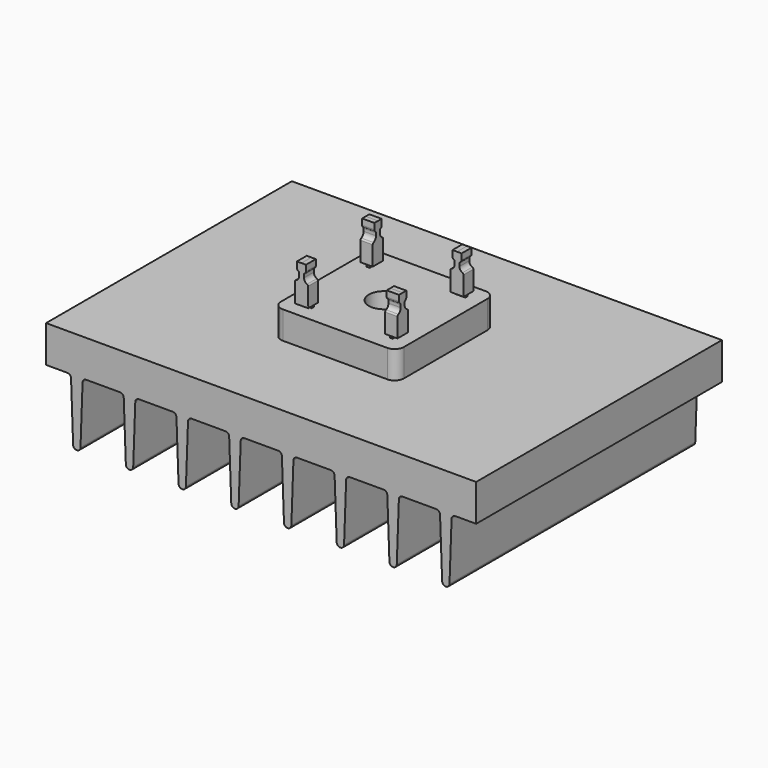
from build123d import *

# Parameters (mm, degrees)
F1_DEPTH       = 31.75
F2_R           = 3.175
F3_DEPTH       = 38.1
F5_W           = 25.4
F5_H           = 25.4
F5_R           = 3.175
F6_DEPTH       = 5.715
F8_W           = 2.286
F8_H           = 5.0511776385
F8_R           = 0.4345613171
F9_DEPTH       = 0.6096
F10_R          = 1.905
F12_COUNT      = 4
F12_ANGLE      = 270
F14_DEPTH      = 1.778
F14_DEPTH_BACK = 0.762
F15_COUNT      = 4
F15_ANGLE      = 270


with BuildPart() as f1:
    # F0 (on Front) → F1 (new body, symmetric)
    with BuildSketch(Plane.XZ):
        with BuildLine():
            Line((44.411900869, 7.62), (-44.488099131, 7.62))
            Line((-44.488099131, 7.62), (-44.488099131, 0))
            Line((-44.488099131, 0), (-40.0923892377, 0))
            ThreePointArc((-40.0923892377, 0), (-39.5633444267, -0.2135881219), (-39.3308814729, -0.7346152546))
            Line((-39.3308814729, -0.7346152546), (-38.8996068957, -12.7273847454))
            ThreePointArc((-38.8996068957, -12.7273847454), (-38.138099131, -13.462), (-37.3765913663, -12.7273847454))
            Line((-37.3765913663, -12.7273847454), (-36.945316789, -0.7346152546))
            ThreePointArc((-36.945316789, -0.7346152546), (-36.7128538353, -0.2135881219), (-36.1838090243, 0))
            Line((-36.1838090243, 0), (-29.195789486, 0))
            ThreePointArc((-29.195789486, 0), (-28.666744675, -0.2135881219), (-28.4342817212, -0.7346152546))
            Line((-28.4342817212, -0.7346152546), (-28.003007144, -12.7273847454))
            ThreePointArc((-28.003007144, -12.7273847454), (-27.2414993793, -13.462), (-26.4799916146, -12.7273847454))
            Line((-26.4799916146, -12.7273847454), (-26.0487170373, -0.7346152546))
            ThreePointArc((-26.0487170373, -0.7346152546), (-25.8162540836, -0.2135881219), (-25.2872092726, 0))
            Line((-25.2872092726, 0), (-18.2991897342, 0))
            ThreePointArc((-18.2991897342, 0), (-17.7701449233, -0.2135881219), (-17.5376819695, -0.7346152546))
            Line((-17.5376819695, -0.7346152546), (-17.1064073923, -12.7273847454))
            ThreePointArc((-17.1064073923, -12.7273847454), (-16.3448996276, -13.462), (-15.5833918629, -12.7273847454))
            Line((-15.5833918629, -12.7273847454), (-15.1521172856, -0.7346152546))
            ThreePointArc((-15.1521172856, -0.7346152546), (-14.9196543318, -0.2135881219), (-14.3906095209, 0))
            Line((-14.3906095209, 0), (-7.4025899825, 0))
            ThreePointArc((-7.4025899825, 0), (-6.8735451716, -0.2135881219), (-6.6410822178, -0.7346152546))
            Line((-6.6410822178, -0.7346152546), (-6.2098076406, -12.7273847454))
            ThreePointArc((-6.2098076406, -12.7273847454), (-5.4482998759, -13.462), (-4.6867921111, -12.7273847454))
            Line((-4.6867921111, -12.7273847454), (-4.2555175339, -0.7346152546))
            ThreePointArc((-4.2555175339, -0.7346152546), (-4.0230545801, -0.2135881219), (-3.4940097692, 0))
            Line((-3.4940097692, 0), (3.4940097692, 0))
            ThreePointArc((3.4940097692, 0), (4.0230545801, -0.2135881219), (4.2555175339, -0.7346152546))
            Line((4.2555175339, -0.7346152546), (4.6867921111, -12.7273847454))
            ThreePointArc((4.6867921111, -12.7273847454), (5.4482998759, -13.462), (6.2098076406, -12.7273847454))
            Line((6.2098076406, -12.7273847454), (6.6410822178, -0.7346152546))
            ThreePointArc((6.6410822178, -0.7346152546), (6.8735451716, -0.2135881219), (7.4025899825, 0))
            Line((7.4025899825, 0), (14.3906095209, 0))
            ThreePointArc((14.3906095209, 0), (14.9196543318, -0.2135881219), (15.1521172856, -0.7346152546))
            Line((15.1521172856, -0.7346152546), (15.5833918629, -12.7273847454))
            ThreePointArc((15.5833918629, -12.7273847454), (16.3448996276, -13.462), (17.1064073923, -12.7273847454))
            Line((17.1064073923, -12.7273847454), (17.5376819695, -0.7346152546))
            ThreePointArc((17.5376819695, -0.7346152546), (17.7701449233, -0.2135881219), (18.2991897342, 0))
            Line((18.2991897342, 0), (25.2872092726, 0))
            ThreePointArc((25.2872092726, 0), (25.8162540836, -0.2135881219), (26.0487170373, -0.7346152546))
            Line((26.0487170373, -0.7346152546), (26.4799916146, -12.7273847454))
            ThreePointArc((26.4799916146, -12.7273847454), (27.2414993793, -13.462), (28.003007144, -12.7273847454))
            Line((28.003007144, -12.7273847454), (28.4342817212, -0.7346152546))
            ThreePointArc((28.4342817212, -0.7346152546), (28.666744675, -0.2135881219), (29.195789486, 0))
            Line((29.195789486, 0), (36.1838090243, 0))
            ThreePointArc((36.1838090243, 0), (36.7128538353, -0.2135881219), (36.945316789, -0.7346152546))
            Line((36.945316789, -0.7346152546), (37.3765913663, -12.7273847454))
            ThreePointArc((37.3765913663, -12.7273847454), (38.138099131, -13.462), (38.8996068957, -12.7273847454))
            Line((38.8996068957, -12.7273847454), (39.3308814729, -0.7346152546))
            ThreePointArc((39.3308814729, -0.7346152546), (39.5633444267, -0.2135881219), (40.0923892377, 0))
            Line((40.0923892377, 0), (44.411900869, 0))
            Line((44.411900869, 0), (44.411900869, 7.62))
        make_face()
    extrude(amount=F1_DEPTH, both=True)


with BuildPart() as f3:
    # F2 (on face) → F3 (new body, symmetric)
    with BuildSketch(Plane.XY.offset(7.62)):
        Circle(F2_R)
    extrude(amount=F3_DEPTH, both=True)


with BuildPart() as f1_1:
    add(f1.part)

    # F4: cut F3
    add(f3.part, mode=Mode.SUBTRACT)


with BuildPart() as f6:
    # F5 (on face) → F6 (new body)
    with BuildSketch(Plane.XY.offset(7.62)):
        Rectangle(F5_W, F5_H)
        Circle(F5_R, mode=Mode.SUBTRACT)
    extrude(amount=F6_DEPTH)

    # F8 (on offset) → F9 (join)
    with BuildSketch(Plane.XZ.offset(8.89)):
        with Locations((-8.509, 14.7718111807)):
            Rectangle(F8_W, F8_H)
        with Locations((-8.509, 16.4821278304)):
            Circle(F8_R, mode=Mode.SUBTRACT)
    extrude(amount=F9_DEPTH)

    # F10
    f10_edges = [f6.edges().sort_by_distance(p)[0] for p in [
        (12.7, -12.7, 10.4775),
        (-12.7, -12.7, 10.4775),
        (12.7, 12.7, 10.4775),
        (-12.7, 12.7, 10.4775),
    ]]
    fillet(f10_edges, radius=F10_R)

    # F12: F6 ×4 about axis
    f12_axis = Axis((0, 0, 7.9428702593), (0, 0, -1))


with BuildPart() as f6_1:
    add(f6.part)
    for i in range(1, F12_COUNT):
        add(f6.part.rotate(f12_axis, i * F12_ANGLE / (F12_COUNT - 1)))


with BuildPart() as f14:
    # F13 (on offset) → F14 (new body, two sides)
    with BuildSketch(Plane.XZ.offset(8.89)) as f14_sk:
        with BuildLine():
            Line((-9.9003278508, 17.8376000773), (-9.9003278508, 13.8695968972))
            Line((-9.9003278508, 13.8695968972), (-8.5291940133, 13.8695968972))
            Line((-8.5291940133, 13.8695968972), (-7.1581172461, 13.8821068339))
            Line((-7.1581172461, 13.8821068339), (-7.1943204721, 17.8499448552))
            ThreePointArc((-7.1943204721, 17.8499448552), (-7.2545306584, 18.0460965757), (-7.4120496194, 18.1775824721))
            ThreePointArc((-7.4120496194, 18.1775824721), (-7.8706347959, 18.5603775506), (-8.0459247976, 19.1314343354))
            Line((-8.0459247976, 19.1314343354), (-8.0509409738, 19.6812023273))
            ThreePointArc((-8.0509409738, 19.6812023273), (-7.9983635845, 19.8800843322), (-7.8517127747, 20.0243478887))
            ThreePointArc((-7.8517127747, 20.0243478887), (-7.6773337947, 20.1958882427), (-7.6148152751, 20.4323740909))
            Line((-7.6148152751, 20.4323740909), (-7.6259572875, 21.653527711))
            Line((-7.6259572875, 21.653527711), (-8.5646651526, 21.6449627815))
            Line((-8.5646651526, 21.6449627815), (-9.5034120909, 21.6449627815))
            Line((-9.5034120909, 21.6449627815), (-9.5034120909, 20.4237583316))
            ThreePointArc((-9.5034120909, 20.4237583316), (-9.4397643489, 20.1915945595), (-9.2666181587, 20.0243478887))
            ThreePointArc((-9.2666181587, 20.0243478887), (-9.1158665929, 19.8787328019), (-9.0604510117, 19.6765969529))
            Line((-9.0604510117, 19.6765969529), (-9.0604510117, 19.1268060772))
            ThreePointArc((-9.0604510117, 19.1268060772), (-9.228685267, 18.5603631155), (-9.6788400986, 18.1775824721))
            ThreePointArc((-9.6788400986, 18.1775824721), (-9.8400715691, 18.0404823419), (-9.9003278508, 17.8376000773))
        make_face()
    extrude(amount=F14_DEPTH)
    extrude(f14_sk.sketch, amount=-F14_DEPTH_BACK)


with BuildPart() as f15_1:
    # F15: instance of F14
    add(f14.part.rotate(Axis((0, 0, 7.9428702593), (0, 0, -1)), 1 * F15_ANGLE / (F15_COUNT - 1)))


with BuildPart() as f15_2:
    # F15: instance of F14
    add(f14.part.rotate(Axis((0, 0, 7.9428702593), (0, 0, -1)), 2 * F15_ANGLE / (F15_COUNT - 1)))


with BuildPart() as f15_3:
    # F15: instance of F14
    add(f14.part.rotate(Axis((0, 0, 7.9428702593), (0, 0, -1)), 3 * F15_ANGLE / (F15_COUNT - 1)))


solid = Compound([f1_1.part, f6_1.part, f14.part, f15_1.part, f15_2.part, f15_3.part])
